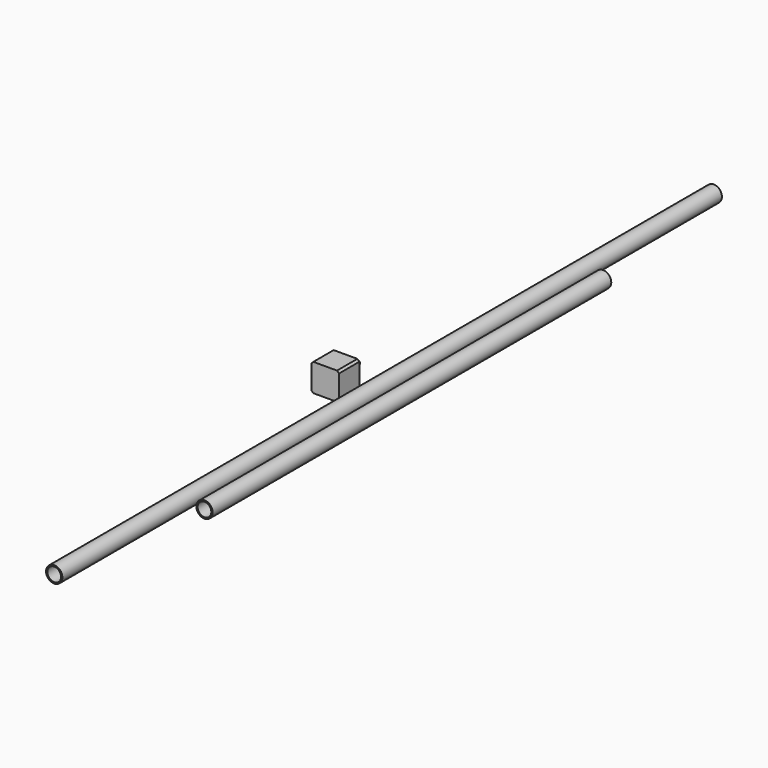
from build123d import *

# Parameters (mm, degrees)
F0_W     = 42.3
F0_H     = 42.3
F0_R     = 1.55
F0_R_2   = 11
F0_R_3   = 2.5
F1_DEPTH = 39
F2_SIZE  = 3
F3_DEPTH = 5
F4_DEPTH = 25
F5_R     = 12.5
F5_R_2   = 10.5
F6_DEPTH = 632
F7_R     = 12.5
F7_R_2   = 10.5
F8_DEPTH = 382
F9_DEPTH = 2


with BuildPart() as f1:
    # F0 (on Front) → F1 (new body)
    with BuildSketch(Plane.XZ):
        with Locations((-64.747915, 13.83183)):
            Rectangle(F0_W, F0_H)
        with Locations((-80.247915, -1.66817)):
            Circle(F0_R, mode=Mode.SUBTRACT)
        with Locations((-49.247915, -1.66817)):
            Circle(F0_R, mode=Mode.SUBTRACT)
        with Locations((-64.747915, 13.83183)):
            Circle(F0_R_2, mode=Mode.SUBTRACT)
        with Locations((-80.247915, 29.33183)):
            Circle(F0_R, mode=Mode.SUBTRACT)
        with Locations((-49.247915, 29.33183)):
            Circle(F0_R, mode=Mode.SUBTRACT)
        with Locations((-49.247915, 29.33183)):
            Circle(F0_R)
        with Locations((-49.247915, -1.66817)):
            Circle(F0_R)
        with Locations((-80.247915, -1.66817)):
            Circle(F0_R)
        with Locations((-80.247915, 29.33183)):
            Circle(F0_R)
        with Locations((-64.747915, 13.83183)):
            Circle(F0_R_2)
        with Locations((-64.747915, 13.83183)):
            Circle(F0_R_3, mode=Mode.SUBTRACT)
        with Locations((-64.747915, 13.83183)):
            Circle(F0_R_3)
    extrude(amount=F1_DEPTH)

    # F2
    f2_edges = [f1.edges().sort_by_distance(p)[0] for p in [
        (-43.597915, -19.5, 34.98183),
        (-85.897915, -19.5, 34.98183),
        (-43.597915, -19.5, -7.31817),
        (-85.897915, -19.5, -7.31817),
    ]]
    chamfer(f2_edges, length=F2_SIZE)

    # F0 (on Front) → F3 (cut)
    with BuildSketch(Plane.XZ):
        with Locations((-49.247915, 29.33183)):
            Circle(F0_R)
        with Locations((-80.247915, 29.33183)):
            Circle(F0_R)
        with Locations((-80.247915, -1.66817)):
            Circle(F0_R)
        with Locations((-49.247915, -1.66817)):
            Circle(F0_R)
    extrude(amount=F3_DEPTH, mode=Mode.SUBTRACT)

    # F0 (on Front) → F4 (join)
    with BuildSketch(Plane.XZ):
        with Locations((-64.747915, 13.83183)):
            Circle(F0_R_3)
    extrude(amount=-F4_DEPTH)

    # F0 (on Front) → F9 (join)
    with BuildSketch(Plane.XZ):
        with Locations((-64.747915, 13.83183)):
            Circle(F0_R_2)
        with Locations((-64.747915, 13.83183)):
            Circle(F0_R_3, mode=Mode.SUBTRACT)
    extrude(amount=-F9_DEPTH)


with BuildPart() as f6:
    # F5 (on Front) → F6 (new body, symmetric)
    with BuildSketch(Plane.XZ):
        with Locations((-5.742102, 14.29946)):
            Circle(F5_R)
        with Locations((-5.742102, 14.29946)):
            Circle(F5_R_2, mode=Mode.SUBTRACT)
    extrude(amount=F6_DEPTH, both=True)


with BuildPart() as f8:
    # F7 (on Front) → F8 (new body, symmetric)
    with BuildSketch(Plane.XZ):
        with Locations((24.615914, 10.130254)):
            Circle(F7_R)
        with Locations((24.615914, 10.130254)):
            Circle(F7_R_2, mode=Mode.SUBTRACT)
    extrude(amount=F8_DEPTH, both=True)


solid = Compound([f1.part, f6.part, f8.part])
